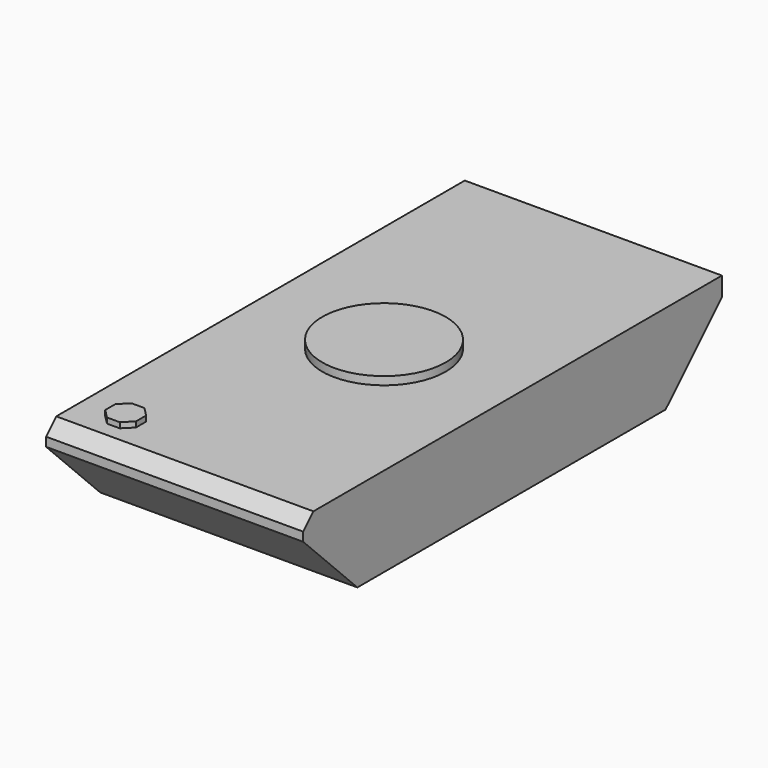
from build123d import *

# Parameters (mm, degrees)
F0_W     = 24.116488
F0_H     = 49.084154
F1_DEPTH = 8.382
F2_SIZE  = 6.35
F3_SIZE  = 6.604
F4_R     = 5.788051
F5_DEPTH = 9.144
F7_DEPTH = 0.508
F8_SIZE  = 1.1938


with BuildPart() as f1:
    # F0 (on Top) → F1 (new body)
    with BuildSketch(Plane.XY):
        Rectangle(F0_W, F0_H)
    extrude(amount=F1_DEPTH)

    # F2
    f2_edges = [f1.edges().sort_by_distance(p)[0] for p in [
        (0, -24.542077, 0),
    ]]
    chamfer(f2_edges, length=F2_SIZE)

    # F3
    f3_edges = [f1.edges().sort_by_distance(p)[0] for p in [
        (0, 24.542077, 0),
    ]]
    chamfer(f3_edges, length=F3_SIZE)

    # F4 (on Top) → F5 (join)
    with BuildSketch(Plane.XY):
        Circle(F4_R)
    extrude(amount=F5_DEPTH)

    # F6 (on face) → F7 (join)
    with BuildSketch(Plane.XY.offset(8.382)):
        Polygon((-8.432594, -21.930741), (-7.237773, -21.930741), (-6.392907, -21.085875), (-6.392907, -19.891055), (-7.237773, -19.046189), (-8.432594, -19.046189), (-9.277459, -19.891055), (-9.277459, -21.085875), align=None)
    extrude(amount=F7_DEPTH)

    # F8
    f8_edges = [f1.edges().sort_by_distance(p)[0] for p in [
        (0, -24.542077, 8.382),
    ]]
    chamfer(f8_edges, length=F8_SIZE)


solid = f1.part
